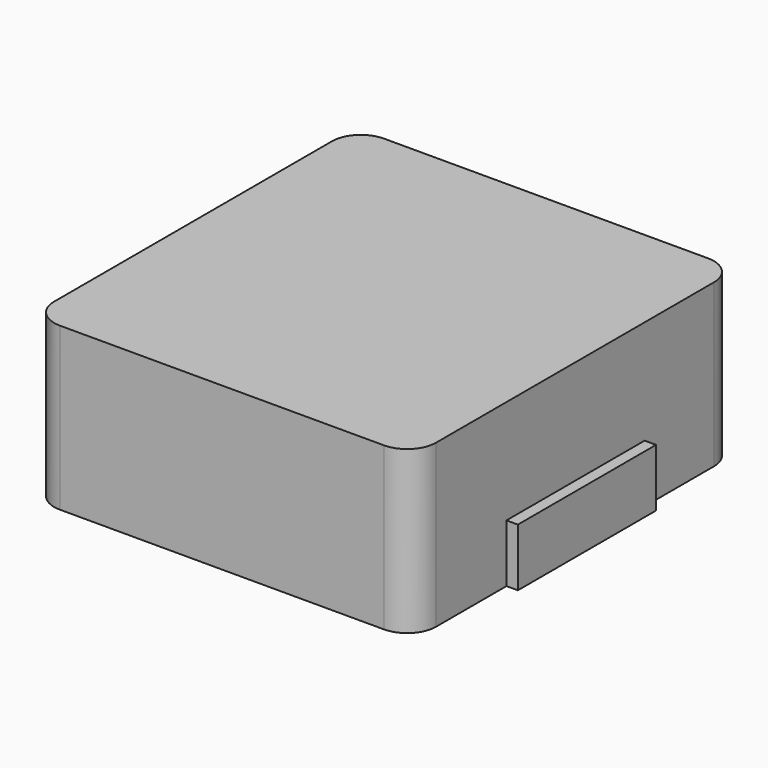
from build123d import *

# Parameters (mm, degrees)
BOX_W                      = 6.6
BOX_H                      = 7
BOX_DEPTH                  = 2.8
FILLET_R                   = 0.5
RECTANGLE_W                = 1.599418
RECTANGLE_H                = 2.98439
EXTRUDE_DEPTH              = 1
RECTANGLE002_W             = 1.599418
RECTANGLE002_H             = 2.98439
EXTRUDE001_DEPTH           = 1
EXTRUDE001_PLACEMENT_ANGLE = 180


with BuildPart() as fillet_body:
    # Box → Box (new body)
    with BuildSketch(Plane(origin=(-3.3, -3.5, 0), x_dir=(1, 0, 0), z_dir=(0, 0, 1))):
        with Locations((3.3, 3.5)):
            Rectangle(BOX_W, BOX_H)
    extrude(amount=BOX_DEPTH)

    # Fillet
    fillet_edges = [fillet_body.edges().sort_by_distance(p)[0] for p in [
        (-3.3, -3.5, 1.4),
        (-3.3, 3.5, 1.4),
        (3.3, -3.5, 1.4),
        (3.3, 3.5, 1.4),
    ]]
    fillet(fillet_edges, radius=FILLET_R)


with BuildPart() as extrude_body:
    # Rectangle → Extrude (new body)
    with BuildSketch(Plane(origin=(1.89778, -1.479668, 0), x_dir=(1, 0, 0), z_dir=(0, 0, 1))):
        with Locations((0.799709, 1.492195)):
            Rectangle(RECTANGLE_W, RECTANGLE_H)
    extrude(amount=EXTRUDE_DEPTH)


with BuildPart() as extrude001:
    # Rectangle002 → Extrude001 (new body)
    with BuildSketch(Plane(origin=(1.89778, -1.479668, 0), x_dir=(1, 0, 0), z_dir=(0, 0, 1))):
        with Locations((0.799709, 1.492195)):
            Rectangle(RECTANGLE002_W, RECTANGLE002_H)
    extrude(amount=EXTRUDE001_DEPTH)


with BuildPart() as extrude001_1:
    # Extrude001 placement: moved
    add(extrude001.part.rotate(Axis((0, 0, 0), (0, 0, 1)), EXTRUDE001_PLACEMENT_ANGLE))


solid = Compound([fillet_body.part, extrude_body.part, extrude001_1.part])
